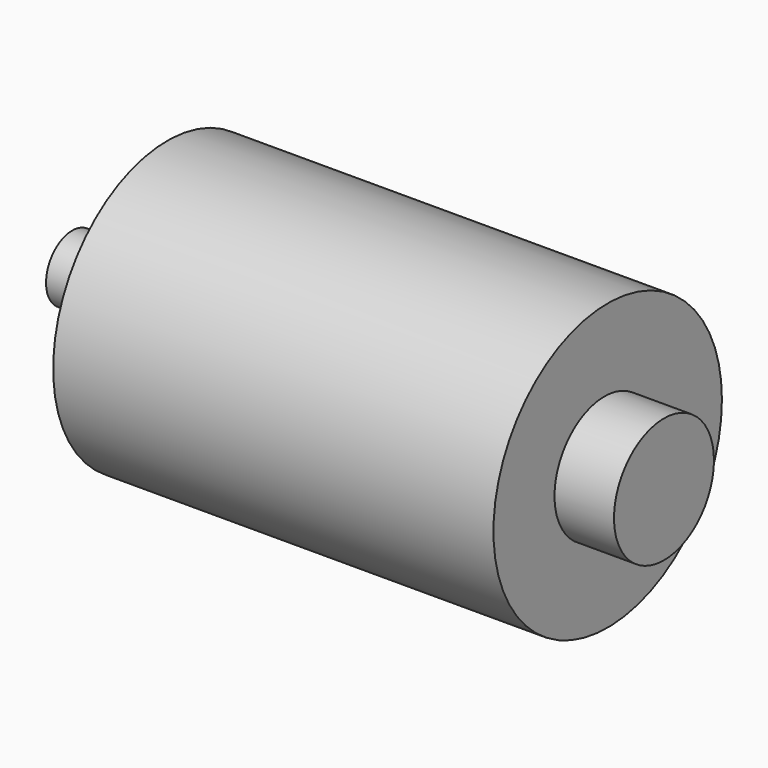
from build123d import *

# Parameters (mm, degrees)
SKETCH002_R  = 12
PAD001_DEPTH = 37
SKETCH003_R  = 5.25
PAD002_DEPTH = 5
SKETCH004_R  = 2.75
PAD003_DEPTH = 8


with BuildPart() as part:
    # Sketch002 → Pad001 (new body)
    with BuildSketch(Plane.YZ):
        Circle(SKETCH002_R)
    extrude(amount=PAD001_DEPTH)

    # Sketch003 (on Face3 of Pad001) → Pad002 (join)
    with BuildSketch(Plane.YZ.offset(37)):
        with Locations((-0.336656, 0)):
            Circle(SKETCH003_R)
    extrude(amount=PAD002_DEPTH)

    # Sketch004 (on Face2 of Pad002) → Pad003 (join)
    with BuildSketch(Plane(origin=(0, 0, 0), x_dir=(0, 1, 0), z_dir=(-1, 0, 0))):
        Circle(SKETCH004_R)
    extrude(amount=PAD003_DEPTH)


with BuildPart() as part_1:
    # Body001 placement: moved
    add(part.part.moved(Location((-50, -38, 17))))


solid = part_1.part
